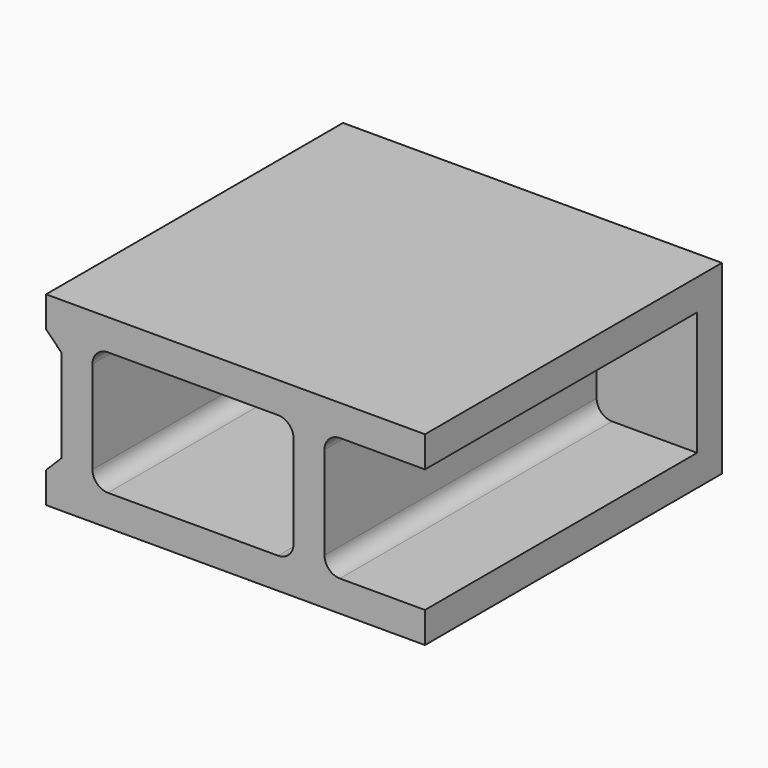
from build123d import *

# Parameters (mm, degrees)
F1_DEPTH = 240
F2_DEPTH = 220


with BuildPart() as f1:
    # F0 (on Front) → F1 (new body)
    with BuildSketch(Plane.XZ):
        with BuildLine():
            Line((-245, -40), (-245, -60))
            Line((-245, -60), (0, -60))
            Line((0, -60), (0, -40))
            Line((0, -40), (-55, -40))
            ThreePointArc((-55, -40), (-62.071068, -37.071068), (-65, -30))
            Line((-65, -30), (-65, 30))
            ThreePointArc((-65, 30), (-62.071068, 37.071068), (-55, 40))
            Line((-55, 40), (0, 40))
            Line((0, 40), (0, 60))
            Line((0, 60), (-245, 60))
            Line((-245, 60), (-245, 40))
            Line((-245, 40), (-235, 30))
            Line((-235, 30), (-235, 0))
            Line((-235, 0), (-235, -30))
            Line((-235, -30), (-245, -40))
        make_face()
        with BuildLine():
            ThreePointArc((-215, 30), (-212.071068, 37.071068), (-205, 40))
            Line((-205, 40), (-95, 40))
            ThreePointArc((-95, 40), (-87.928932, 37.071068), (-85, 30))
            Line((-85, 30), (-85, -30))
            ThreePointArc((-85, -30), (-87.928932, -37.071068), (-95, -40))
            Line((-95, -40), (-205, -40))
            ThreePointArc((-205, -40), (-212.071068, -37.071068), (-215, -30))
            Line((-215, -30), (-215, 30))
        make_face(mode=Mode.SUBTRACT)
        with BuildLine():
            Line((-95, 40), (-205, 40))
            ThreePointArc((-205, 40), (-212.071068, 37.071068), (-215, 30))
            Line((-215, 30), (-215, -30))
            ThreePointArc((-215, -30), (-212.071068, -37.071068), (-205, -40))
            Line((-205, -40), (-95, -40))
            ThreePointArc((-95, -40), (-87.928932, -37.071068), (-85, -30))
            Line((-85, -30), (-85, 30))
            ThreePointArc((-85, 30), (-87.928932, 37.071068), (-95, 40))
        make_face()
        with BuildLine():
            Line((-55, -40), (0, -40))
            Line((0, -40), (0, 40))
            Line((0, 40), (-55, 40))
            ThreePointArc((-55, 40), (-62.071068, 37.071068), (-65, 30))
            Line((-65, 30), (-65, -30))
            ThreePointArc((-65, -30), (-62.071068, -37.071068), (-55, -40))
        make_face()
    extrude(amount=-F1_DEPTH)

    # F0 (on Front) → F2 (cut)
    with BuildSketch(Plane.XZ):
        with BuildLine():
            Line((-95, 40), (-205, 40))
            ThreePointArc((-205, 40), (-212.071068, 37.071068), (-215, 30))
            Line((-215, 30), (-215, -30))
            ThreePointArc((-215, -30), (-212.071068, -37.071068), (-205, -40))
            Line((-205, -40), (-95, -40))
            ThreePointArc((-95, -40), (-87.928932, -37.071068), (-85, -30))
            Line((-85, -30), (-85, 30))
            ThreePointArc((-85, 30), (-87.928932, 37.071068), (-95, 40))
        make_face()
        with BuildLine():
            Line((-55, -40), (0, -40))
            Line((0, -40), (0, 40))
            Line((0, 40), (-55, 40))
            ThreePointArc((-55, 40), (-62.071068, 37.071068), (-65, 30))
            Line((-65, 30), (-65, -30))
            ThreePointArc((-65, -30), (-62.071068, -37.071068), (-55, -40))
        make_face()
    extrude(amount=-F2_DEPTH, mode=Mode.SUBTRACT)


solid = f1.part
